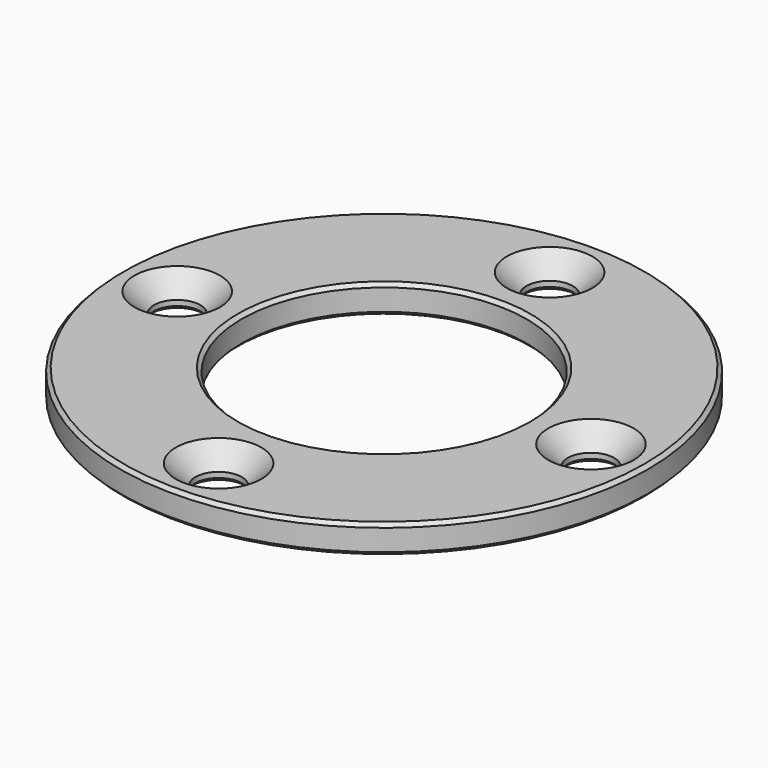
from build123d import *

# Parameters (mm, degrees)
F0_R     = 37
F0_R_2   = 3.25
F0_R_3   = 20
F1_DEPTH = 4
F2_SIZE  = 2.75
F3_SIZE  = 0.5


with BuildPart() as f1:
    # F0 (on Top) → F1 (new body)
    with BuildSketch(Plane.XY):
        Circle(F0_R)
        with Locations((0, -29)):
            Circle(F0_R_2, mode=Mode.SUBTRACT)
        with Locations((-29, 0)):
            Circle(F0_R_2, mode=Mode.SUBTRACT)
        Circle(F0_R_3, mode=Mode.SUBTRACT)
        with Locations((29, 0)):
            Circle(F0_R_2, mode=Mode.SUBTRACT)
        with Locations((0, 29)):
            Circle(F0_R_2, mode=Mode.SUBTRACT)
    extrude(amount=F1_DEPTH)

    # F2
    f2_edges = [f1.edges().sort_by_distance(p)[0] for p in [
        (-3.25, -29, 4),
        (-32.25, 0, 4),
        (-3.25, 29, 4),
        (25.75, 0, 4),
    ]]
    chamfer(f2_edges, length=F2_SIZE)

    # F3
    f3_edges = [f1.edges().sort_by_distance(p)[0] for p in [
        (20, 0, 2),
        (-20, 0, 0),
        (-20, 0, 4),
        (37, 0, 2),
        (-37, 0, 0),
        (-37, 0, 4),
        (-3.25, -29, 0),
        (-32.25, 0, 0),
        (25.75, 0, 0),
        (-3.25, 29, 0),
    ]]
    chamfer(f3_edges, length=F3_SIZE)


solid = f1.part
